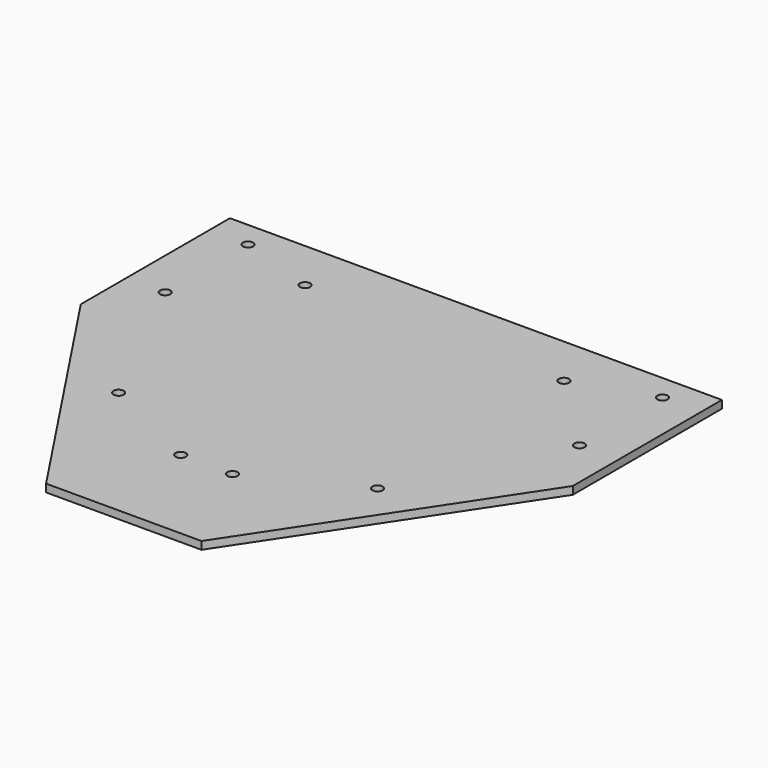
from build123d import *

# Parameters (mm, degrees)
F0_W     = 95
F0_H     = 85
F0_R     = 1
F1_DEPTH = 1.5
F3_DEPTH = 1.5


with BuildPart() as f1:
    # F0 (on Top) → F1 (new body)
    with BuildSketch(Plane.XY):
        Rectangle(F0_W, F0_H)
        with Locations((-5, -22.5)):
            Circle(F0_R, mode=Mode.SUBTRACT)
        with Locations((-25, -12.5)):
            Circle(F0_R, mode=Mode.SUBTRACT)
        with Locations((5, -22.5)):
            Circle(F0_R, mode=Mode.SUBTRACT)
        with Locations((25, -12.5)):
            Circle(F0_R, mode=Mode.SUBTRACT)
        with Locations((-40, 17.5)):
            Circle(F0_R, mode=Mode.SUBTRACT)
        with Locations((-40, 37.5)):
            Circle(F0_R, mode=Mode.SUBTRACT)
        with Locations((-25, 32.5)):
            Circle(F0_R, mode=Mode.SUBTRACT)
        with Locations((40, 17.5)):
            Circle(F0_R, mode=Mode.SUBTRACT)
        with Locations((25, 32.5)):
            Circle(F0_R, mode=Mode.SUBTRACT)
        with Locations((40, 37.5)):
            Circle(F0_R, mode=Mode.SUBTRACT)
    extrude(amount=F1_DEPTH)

    # F2 (on face) → F3 (cut, through all)
    with BuildSketch(Plane.XY.offset(1.5)):
        Polygon((-15, -42.5), (-47.5, 6.5), (-47.5, -42.5), align=None)
        Polygon((47.5, -42.5), (47.5, 6.5), (15, -42.5), align=None)
    extrude(amount=-F3_DEPTH, mode=Mode.SUBTRACT)


solid = f1.part
